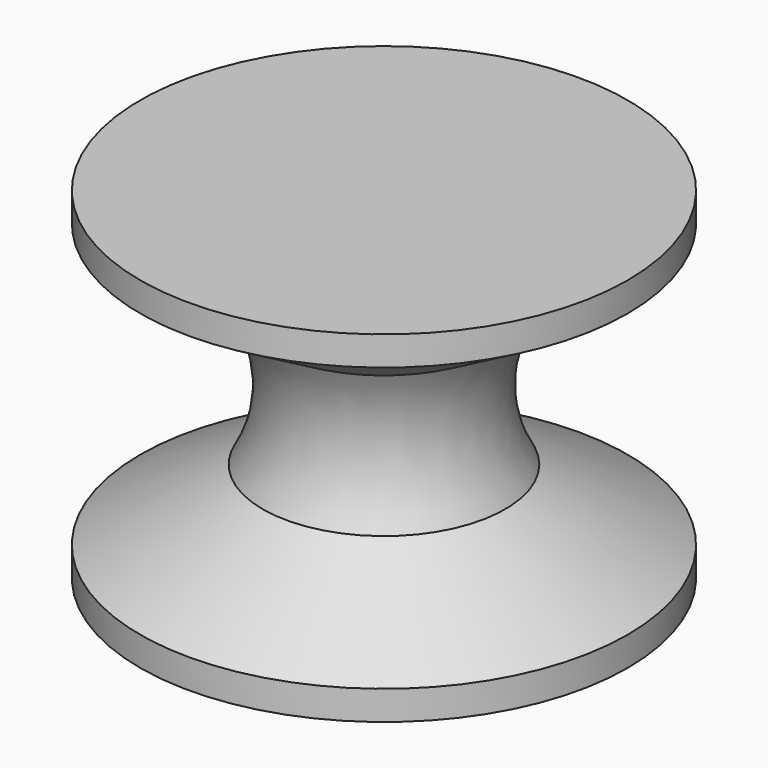
from build123d import *

# Parameters (mm, degrees)
F0_R     = 25
F1_DEPTH = 35


with BuildPart() as f1:
    # F0 (on Top) → F1 (new body)
    with BuildSketch(Plane.XY):
        Circle(F0_R)
    extrude(amount=F1_DEPTH)

    # F2 (on Front) → F3 (revolve, cut)
    with BuildSketch(Plane.XZ):
        with BuildLine():
            Line((-12.442632, 24.75), (-25, 32))
            Line((-25, 32), (-25, 3))
            Line((-25, 3), (-12.442632, 10.25))
            ThreePointArc((-12.442632, 10.25), (-10.5, 17.5), (-12.442632, 24.75))
        make_face()
    revolve(axis=Axis((0, 0, 17.5), (0, 0, 1)), mode=Mode.SUBTRACT)


solid = f1.part
